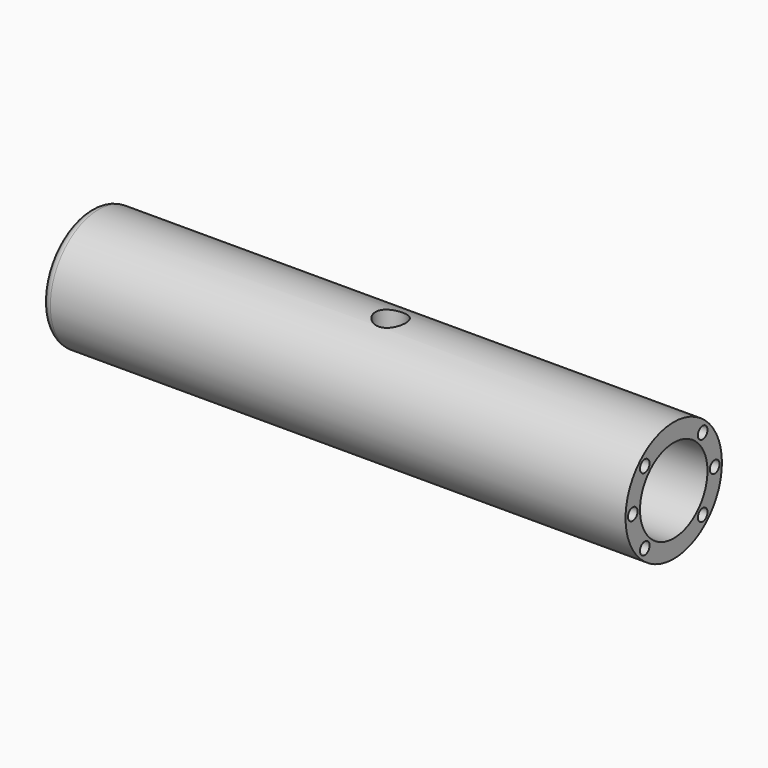
from build123d import *

# Parameters (mm, degrees)
F0_R      = 20
F1_DEPTH  = 97
F2_T      = -6
F3_R      = 2
F4_DEPTH  = 40
F5_R      = 3
F6_R      = 5
F7_DEPTH  = 20.001
F8_R      = 5
F9_DEPTH  = 20.001
F10_R     = 5
F11_DEPTH = 194.001


with BuildPart() as f1:
    # F0 (on Right) → F1 (new body, symmetric)
    with BuildSketch(Plane.YZ):
        Circle(F0_R)
    extrude(amount=F1_DEPTH, both=True)

    # F2
    f2_openings = [f1.faces().sort_by_distance(p)[0] for p in [
        (97, 0, 0),
    ]]
    offset(amount=F2_T, openings=f2_openings)

    # F3 (on face) → F4 (cut)
    with BuildSketch(Plane.YZ.offset(97)):
        with Locations((17, 0)):
            Circle(F3_R)
        with Locations((12.020815, -12.020815)):
            Circle(F3_R)
        with Locations((-12.020815, -12.020815)):
            Circle(F3_R)
        with Locations((-17, 0)):
            Circle(F3_R)
        with Locations((12.020815, 12.020815)):
            Circle(F3_R)
        with Locations((-12.020815, 12.020815)):
            Circle(F3_R)
    extrude(amount=-F4_DEPTH, mode=Mode.SUBTRACT)

    # F5
    f5_edges = [f1.edges().sort_by_distance(p)[0] for p in [
        (-97, -20, 0),
    ]]
    fillet(f5_edges, radius=F5_R)

    # F6 (on Top) → F7 (cut, through all)
    with BuildSketch(Plane.XY):
        with Locations((-41, 0)):
            Circle(F6_R)
        with Locations((47, 0)):
            Circle(F6_R)
    extrude(amount=-F7_DEPTH, mode=Mode.SUBTRACT)

    # F8 (on Top) → F9 (cut, through all)
    with BuildSketch(Plane.XY):
        with Locations((3, 0)):
            Circle(F8_R)
    extrude(amount=F9_DEPTH, mode=Mode.SUBTRACT)

    # F10 (on face) → F11 (cut, through all)
    with BuildSketch(Plane(origin=(-97, 0, 0), x_dir=(0, -1, 0), z_dir=(-1, 0, 0))):
        with Locations((0, 9)):
            Circle(F10_R)
    extrude(amount=-F11_DEPTH, mode=Mode.SUBTRACT)


solid = f1.part
